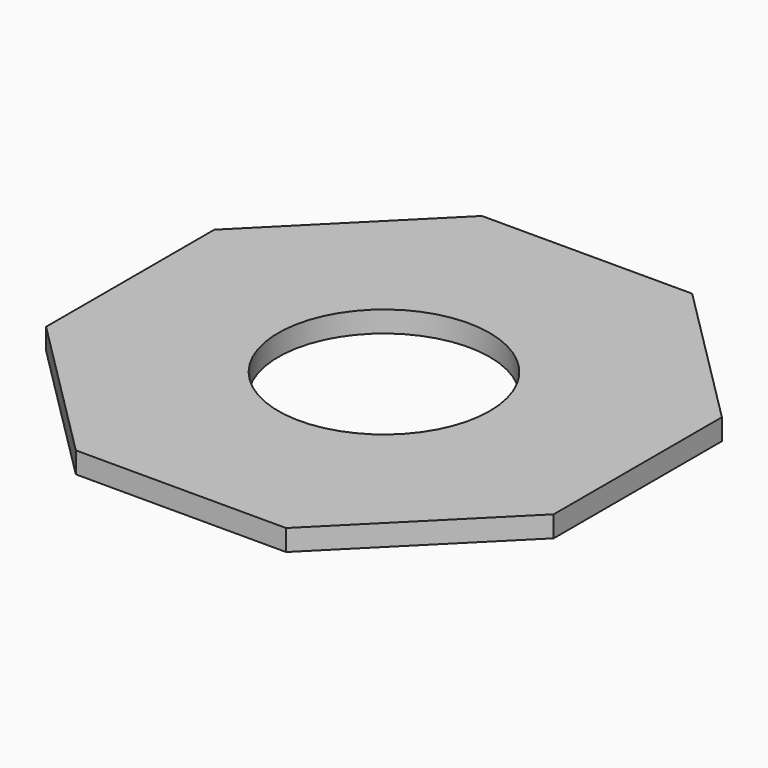
from build123d import *

# Parameters (mm, degrees)
F0_R     = 2.5
F1_DEPTH = 0.5


with BuildPart() as f1:
    # F0 (on Top) → F1 (new body)
    with BuildSketch(Plane.XY):
        Polygon((2.485281, 6), (-2.485281, 6), (-6, 2.485281), (-6, -2.485281), (-2.485281, -6), (2.485281, -6), (6, -2.485281), (6, 2.485281), align=None)
        Circle(F0_R, mode=Mode.SUBTRACT)
    extrude(amount=F1_DEPTH)


solid = f1.part
